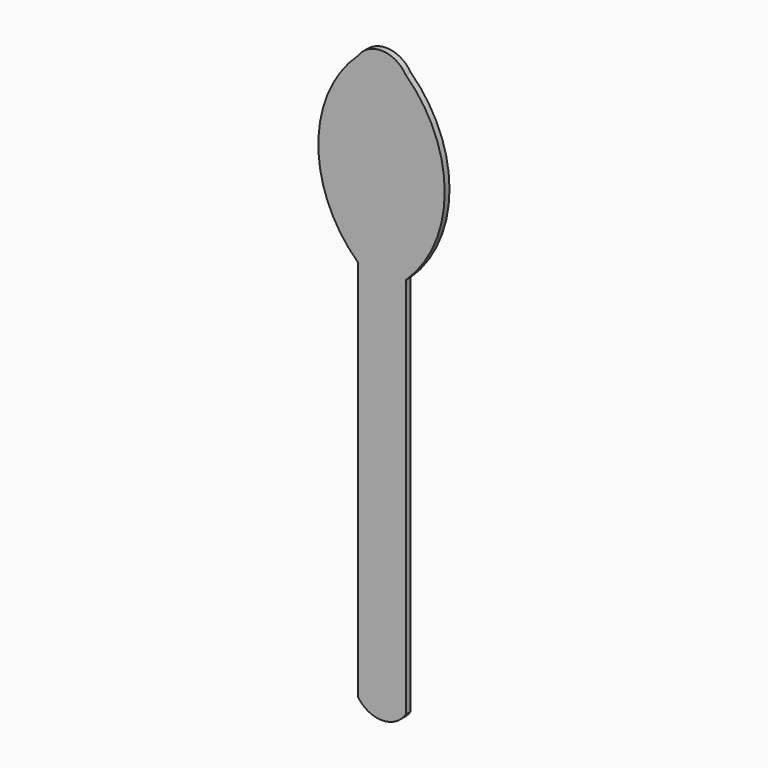
from build123d import *

# Parameters (mm, degrees)
F1_DEPTH = 1.5875


with BuildPart() as f1:
    # F0 (on Front) → F1 (new body)
    with BuildSketch(Plane.XZ):
        Polygon((-6.35, 92.072718), (-6.35, 0), (-6.35, -9.527282), (6.35, -9.527282), (6.35, 92.072718), align=None)
        with BuildLine():
            Line((6.35, -9.527282), (-6.35, -9.527282))
            ThreePointArc((-6.35, -9.527282), (0, -12.935168), (6.35, -9.527282))
        make_face()
        with BuildLine():
            ThreePointArc((-6.35, 140.435502), (-16.884879, 116.25411), (-6.35, 92.072718))
            Line((-6.35, 92.072718), (6.35, 92.072718))
            ThreePointArc((6.35, 92.072718), (16.693259, 116.074506), (6.35, 140.076295))
            ThreePointArc((6.35, 140.076295), (0.096459, 143.666252), (-6.35, 140.435502))
        make_face()
    extrude(amount=F1_DEPTH)


solid = f1.part
